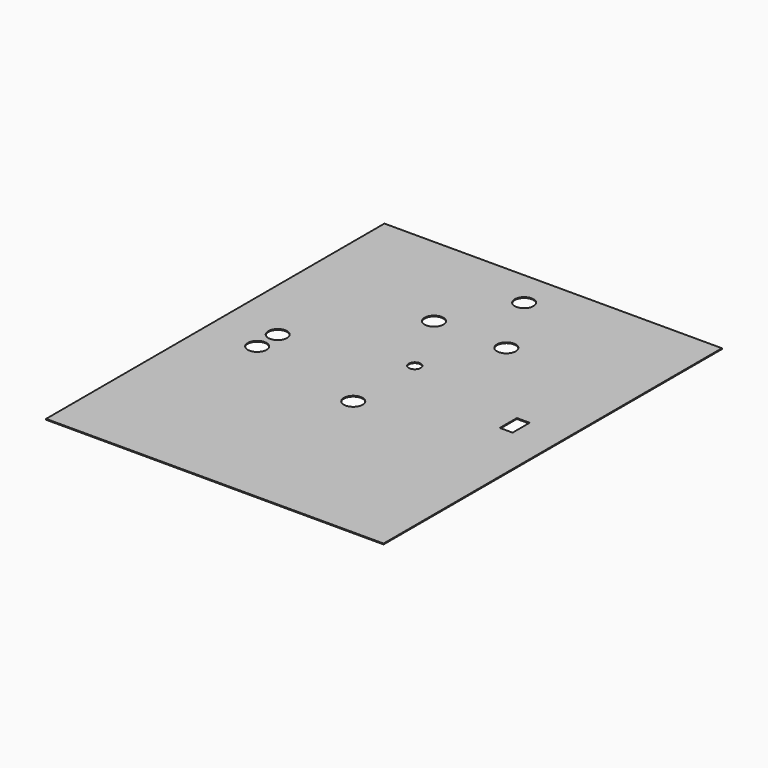
from build123d import *

# Parameters (mm, degrees)
F0_W     = 395
F0_H     = 495
F0_R     = 11
F0_R_2   = 7
F0_W_2   = 15
F0_H_2   = 25
F1_DEPTH = 1


with BuildPart() as f1:
    # F0 (on Top) → F1 (new body)
    with BuildSketch(Plane.XY):
        Rectangle(F0_W, F0_H)
        with Locations((-136.41675, -15)):
            Circle(F0_R, mode=Mode.SUBTRACT)
        with Locations((0, -45)):
            Circle(F0_R, mode=Mode.SUBTRACT)
        with Locations((-136.41675, 15)):
            Circle(F0_R, mode=Mode.SUBTRACT)
        with Locations((-41.486505, 125)):
            Circle(F0_R, mode=Mode.SUBTRACT)
        with Locations((0, 45)):
            Circle(F0_R_2, mode=Mode.SUBTRACT)
        with Locations((145, 10)):
            Rectangle(F0_W_2, F0_H_2, mode=Mode.SUBTRACT)
        with Locations((43.16403, 125)):
            Circle(F0_R, mode=Mode.SUBTRACT)
        with Locations((0, 205)):
            Circle(F0_R, mode=Mode.SUBTRACT)
    extrude(amount=F1_DEPTH)


solid = f1.part
